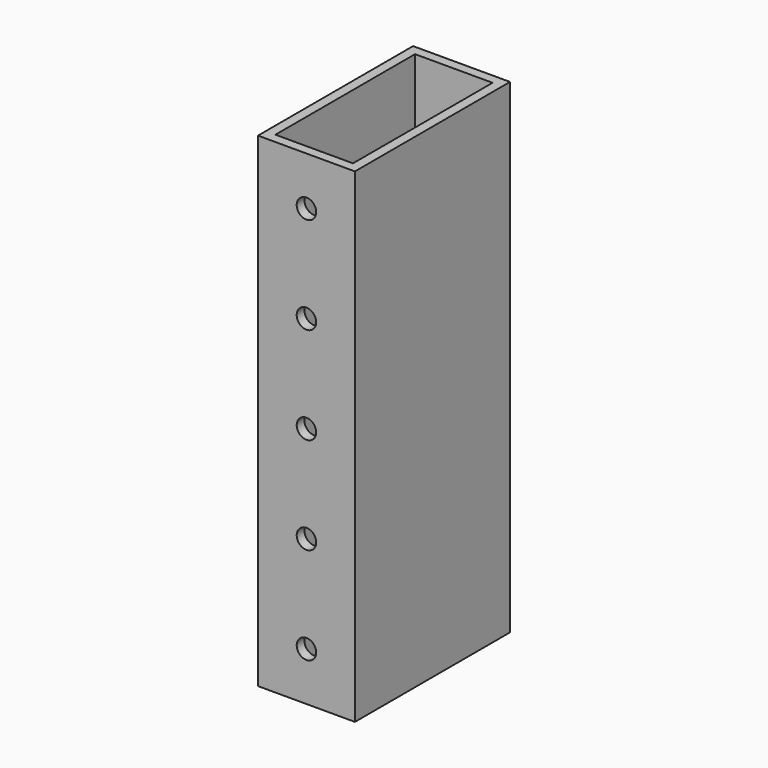
from build123d import *

# Parameters (mm, degrees)
F0_W     = 25.4
F0_H     = 50.8
F0_W_2   = 20.32
F0_H_2   = 45.72
F1_DEPTH = 127
F2_R     = 2.5527
F3_DEPTH = 76.2


with BuildPart() as f1:
    # F0 (on Top) → F1 (new body)
    with BuildSketch(Plane.XY):
        with Locations((12.7, -25.4)):
            Rectangle(F0_W, F0_H)
        with Locations((12.7, -25.4)):
            Rectangle(F0_W_2, F0_H_2, mode=Mode.SUBTRACT)
    extrude(amount=F1_DEPTH)

    # F2 (on face) → F3 (cut)
    with BuildSketch(Plane.XZ.offset(50.8)):
        with Locations((12.7, 88.9)):
            Circle(F2_R)
        with Locations((12.7, 63.5)):
            Circle(F2_R)
        with Locations((12.7, 38.1)):
            Circle(F2_R)
        with Locations((12.7, 12.7)):
            Circle(F2_R)
        with Locations((12.7, 114.3)):
            Circle(F2_R)
        with Locations((12.7, 139.7)):
            Circle(F2_R)
    extrude(amount=-F3_DEPTH, mode=Mode.SUBTRACT)


solid = f1.part
